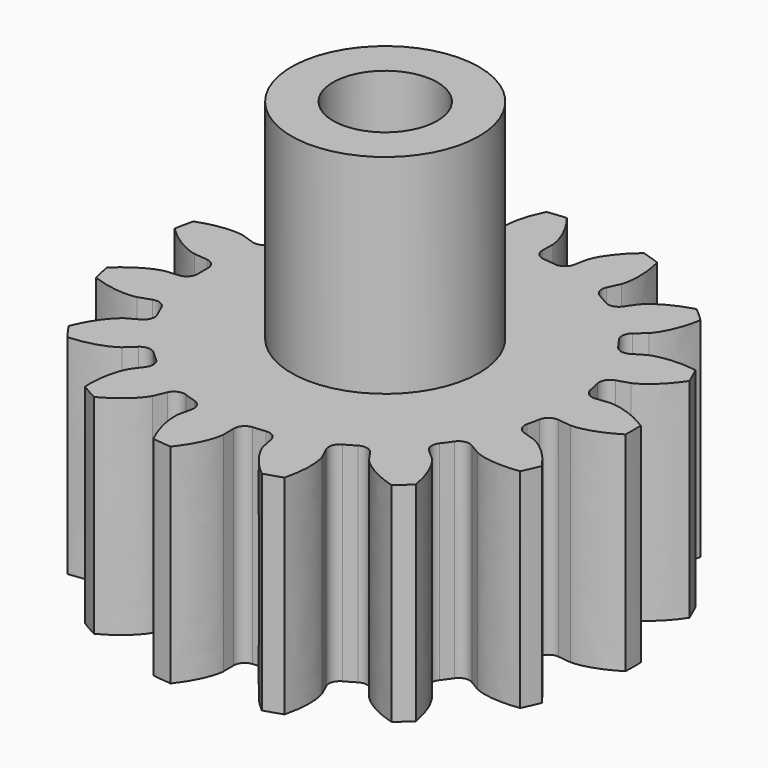
from build123d import *

# Parameters (mm, degrees)
PAD_DEPTH       = 10
SKETCH008_R     = 2.5
POCKET005_DEPTH = 10
SKETCH009_R     = 4.5
SKETCH009_R_2   = 2.5
PAD007_DEPTH    = 10


with BuildPart() as part:
    # InvoluteGear → Pad (new body)
    with BuildSketch(Plane.XY):
        with BuildLine():
            Line((9.193953, -1.105095), (9.818727, -1.179168))
            add(Edge.make_bspline(
                [(9.818727, -1.179168), (9.919585, -1.182359), (10.323547, -1.18095), (11.03372, -0.999479), (11.891084, -0.45771)],
                knots=[0, 0, 0, 0, 0, 1, 1, 1, 1, 1], degree=4))
            ThreePointArc((11.891084, -0.45771), (11.89989, 0), (11.891084, 0.45771))
            add(Edge.make_bspline(
                [(11.891084, 0.45771), (11.03372, 0.999479), (10.323547, 1.18095), (9.919585, 1.182359), (9.818727, 1.179168)],
                knots=[0, 0, 0, 0, 0, 1, 1, 1, 1, 1], degree=4))
            Line((9.818727, 1.179168), (9.193953, 1.105095))
            ThreePointArc((9.193953, 1.105095), (8.819162, 1.204211), (8.614573, 1.533505))
            ThreePointArc((8.614573, 1.533505), (8.558792, 1.819227), (8.493537, 2.102935))
            ThreePointArc((8.493537, 2.102935), (8.546502, 2.486975), (8.848576, 2.729963))
            Line((8.848576, 2.729963), (9.449465, 2.916412))
            add(Edge.make_bspline(
                [(9.449465, 2.916412), (9.542901, 2.95452), (9.911365, 3.120114), (10.486329, 3.574749), (11.049213, 4.418401)],
                knots=[0, 0, 0, 0, 0, 1, 1, 1, 1, 1], degree=4))
            ThreePointArc((11.049213, 4.418401), (10.87109, 4.840121), (10.676878, 5.254679))
            add(Edge.make_bspline(
                [(10.676878, 5.254679), (9.67328, 5.400887), (8.950694, 5.277816), (8.581083, 5.114798), (8.490243, 5.07086)],
                knots=[0, 0, 0, 0, 0, 1, 1, 1, 1, 1], degree=4))
            Line((8.490243, 5.07086), (7.949611, 4.749072))
            ThreePointArc((7.949611, 4.749072), (7.566909, 4.687178), (7.246071, 4.904789))
            ThreePointArc((7.246071, 4.904789), (7.078899, 5.143121), (6.903891, 5.37576))
            ThreePointArc((6.903891, 5.37576), (6.796074, 5.74814), (6.973201, 6.092985))
            Line((6.973201, 6.092985), (7.446304, 6.507719))
            add(Edge.make_bspline(
                [(7.446304, 6.507719), (7.516162, 6.580536), (7.785418, 6.881681), (8.125757, 7.53087), (8.296833, 8.53053)],
                knots=[0, 0, 0, 0, 0, 1, 1, 1, 1, 1], degree=4))
            ThreePointArc((8.296833, 8.53053), (7.96258, 8.843341), (7.616543, 9.143065))
            add(Edge.make_bspline(
                [(7.616543, 9.143065), (6.640242, 8.868433), (6.030185, 8.4621), (5.758834, 8.162841), (5.693718, 8.085754)],
                knots=[0, 0, 0, 0, 0, 1, 1, 1, 1, 1], degree=4))
            Line((5.693718, 8.085754), (5.330709, 7.571891))
            ThreePointArc((5.330709, 7.571891), (5.006268, 7.359689), (4.624658, 7.42799))
            ThreePointArc((4.624658, 7.42799), (4.375, 7.577722), (4.1205, 7.719066))
            ThreePointArc((4.1205, 7.719066), (3.870544, 8.0154), (3.892095, 8.402475))
            Line((3.892095, 8.402475), (4.155609, 8.973781))
            add(Edge.make_bspline(
                [(4.155609, 8.973781), (4.189811, 9.068717), (4.313302, 9.453343), (4.360168, 10.184835), (4.109855, 11.167653)],
                knots=[0, 0, 0, 0, 0, 1, 1, 1, 1, 1], degree=4))
            ThreePointArc((4.109855, 11.167653), (3.677268, 11.317468), (3.239239, 11.450533))
            add(Edge.make_bspline(
                [(3.239239, 11.450533), (2.459046, 10.802547), (2.067002, 10.18321), (1.94083, 9.799455), (1.912698, 9.702548)],
                knots=[0, 0, 0, 0, 0, 1, 1, 1, 1, 1], degree=4))
            Line((1.912698, 9.702548), (1.79008, 9.085462))
            ThreePointArc((1.79008, 9.085462), (1.579998, 8.759643), (1.203599, 8.666825))
            ThreePointArc((1.203599, 8.666825), (0.914624, 8.702067), (0.624637, 8.727676))
            ThreePointArc((0.624637, 8.727676), (0.275761, 8.896724), (0.138011, 9.259101))
            Line((0.138011, 9.259101), (0.146372, 9.888196))
            add(Edge.make_bspline(
                [(0.146372, 9.888196), (0.139003, 9.988835), (0.095376, 10.390437), (-0.159334, 11.07775), (-0.787754, 11.873787)],
                knots=[0, 0, 0, 0, 0, 1, 1, 1, 1, 1], degree=4))
            ThreePointArc((-0.787754, 11.873787), (-1.243877, 11.834701), (-1.698159, 11.7781))
            add(Edge.make_bspline(
                [(-1.698159, 11.7781), (-2.147341, 10.868802), (-2.253585, 10.143551), (-2.212761, 9.741655), (-2.199045, 9.641683)],
                knots=[0, 0, 0, 0, 0, 1, 1, 1, 1, 1], degree=4))
            Line((-2.199045, 9.641683), (-2.060071, 9.028073))
            ThreePointArc((-2.060071, 9.028073), (-2.119467, 8.644976), (-2.425573, 8.407086))
            ThreePointArc((-2.425573, 8.407086), (-2.703899, 8.321745), (-2.979232, 8.227191))
            ThreePointArc((-2.979232, 8.227191), (-3.366704, 8.239724), (-3.639936, 8.514744))
            Line((-3.639936, 8.514744), (-3.888174, 9.092851))
            add(Edge.make_bspline(
                [(-3.888174, 9.092851), (-3.935839, 9.181793), (-4.139041, 9.530929), (-4.651286, 10.055221), (-5.549153, 10.526836)],
                knots=[0, 0, 0, 0, 0, 1, 1, 1, 1, 1], degree=4))
            ThreePointArc((-5.549153, 10.526836), (-5.949945, 10.305607), (-6.341931, 10.069126))
            add(Edge.make_bspline(
                [(-6.341931, 10.069126), (-6.382434, 9.055742), (-6.184506, 8.349979), (-5.983746, 7.999433), (-5.930553, 7.913683)],
                knots=[0, 0, 0, 0, 0, 1, 1, 1, 1, 1], degree=4))
            Line((-5.930553, 7.913683), (-5.554017, 7.409649))
            ThreePointArc((-5.554017, 7.409649), (-5.452458, 7.035513), (-5.635341, 6.693686))
            ThreePointArc((-5.635341, 6.693686), (-5.854893, 6.502517), (-6.067964, 6.304151))
            ThreePointArc((-6.067964, 6.304151), (-6.427035, 6.158), (-6.788505, 6.29811))
            Line((-6.788505, 6.29811), (-7.25042, 6.72527))
            add(Edge.make_bspline(
                [(-7.25042, 6.72527), (-7.33014, 6.787135), (-7.65778, 7.023437), (-8.338988, 7.294053), (-9.351054, 7.359699)],
                knots=[0, 0, 0, 0, 0, 1, 1, 1, 1, 1], degree=4))
            ThreePointArc((-9.351054, 7.359699), (-9.627213, 6.99458), (-9.889124, 6.619109))
            add(Edge.make_bspline(
                [(-9.889124, 6.619109), (-9.513946, 5.676862), (-9.04607, 5.11262), (-8.720087, 4.874037), (-8.636615, 4.817336)],
                knots=[0, 0, 0, 0, 0, 1, 1, 1, 1, 1], degree=4))
            Line((-8.636615, 4.817336), (-8.087622, 4.510029))
            ThreePointArc((-8.087622, 4.510029), (-7.842669, 4.209546), (-7.870708, 3.822887))
            ThreePointArc((-7.870708, 3.822887), (-7.993523, 3.558946), (-8.10749, 3.291065))
            ThreePointArc((-8.10749, 3.291065), (-8.376073, 3.011503), (-8.763281, 2.992476))
            Line((-8.763281, 2.992476), (-9.359002, 3.194829))
            add(Edge.make_bspline(
                [(-9.359002, 3.194829), (-9.456992, 3.21892), (-9.85242, 3.301529), (-10.584803, 3.271677), (-11.536072, 2.920003)],
                knots=[0, 0, 0, 0, 0, 1, 1, 1, 1, 1], degree=4))
            ThreePointArc((-11.536072, 2.920003), (-11.639849, 2.474126), (-11.726399, 2.024587))
            add(Edge.make_bspline(
                [(-11.726399, 2.024587), (-11.00041, 1.316402), (-10.343486, 0.991243), (-9.948645, 0.905876), (-9.849327, 0.888028)],
                knots=[0, 0, 0, 0, 0, 1, 1, 1, 1, 1], degree=4))
            Line((-9.849327, 0.888028), (-9.222805, 0.830584))
            ThreePointArc((-9.222805, 0.830584), (-8.876812, 0.655711), (-8.745157, 0.291076))
            ThreePointArc((-8.745157, 0.291076), (-8.75, 0), (-8.745157, -0.291076))
            ThreePointArc((-8.745157, -0.291076), (-8.876812, -0.655711), (-9.222805, -0.830584))
            Line((-9.222805, -0.830584), (-9.849327, -0.888028))
            add(Edge.make_bspline(
                [(-9.849327, -0.888028), (-9.948645, -0.905876), (-10.343486, -0.991243), (-11.00041, -1.316402), (-11.726399, -2.024587)],
                knots=[0, 0, 0, 0, 0, 1, 1, 1, 1, 1], degree=4))
            ThreePointArc((-11.726399, -2.024587), (-11.639849, -2.474126), (-11.536072, -2.920003))
            add(Edge.make_bspline(
                [(-11.536072, -2.920003), (-10.584803, -3.271677), (-9.85242, -3.301529), (-9.456992, -3.21892), (-9.359002, -3.194829)],
                knots=[0, 0, 0, 0, 0, 1, 1, 1, 1, 1], degree=4))
            Line((-9.359002, -3.194829), (-8.763281, -2.992476))
            ThreePointArc((-8.763281, -2.992476), (-8.376073, -3.011503), (-8.10749, -3.291065))
            ThreePointArc((-8.10749, -3.291065), (-7.993523, -3.558946), (-7.870708, -3.822887))
            ThreePointArc((-7.870708, -3.822887), (-7.842669, -4.209546), (-8.087622, -4.510029))
            Line((-8.087622, -4.510029), (-8.636615, -4.817336))
            add(Edge.make_bspline(
                [(-8.636615, -4.817336), (-8.720087, -4.874037), (-9.04607, -5.11262), (-9.513946, -5.676862), (-9.889124, -6.619109)],
                knots=[0, 0, 0, 0, 0, 1, 1, 1, 1, 1], degree=4))
            ThreePointArc((-9.889124, -6.619109), (-9.627213, -6.99458), (-9.351054, -7.359699))
            add(Edge.make_bspline(
                [(-9.351054, -7.359699), (-8.338988, -7.294053), (-7.65778, -7.023437), (-7.33014, -6.787135), (-7.25042, -6.72527)],
                knots=[0, 0, 0, 0, 0, 1, 1, 1, 1, 1], degree=4))
            Line((-7.25042, -6.72527), (-6.788505, -6.29811))
            ThreePointArc((-6.788505, -6.29811), (-6.427035, -6.158), (-6.067964, -6.304151))
            ThreePointArc((-6.067964, -6.304151), (-5.854893, -6.502517), (-5.635341, -6.693686))
            ThreePointArc((-5.635341, -6.693686), (-5.452458, -7.035513), (-5.554017, -7.409649))
            Line((-5.554017, -7.409649), (-5.930553, -7.913683))
            add(Edge.make_bspline(
                [(-5.930553, -7.913683), (-5.983746, -7.999433), (-6.184506, -8.349979), (-6.382434, -9.055742), (-6.341931, -10.069126)],
                knots=[0, 0, 0, 0, 0, 1, 1, 1, 1, 1], degree=4))
            ThreePointArc((-6.341931, -10.069126), (-5.949945, -10.305607), (-5.549153, -10.526836))
            add(Edge.make_bspline(
                [(-5.549153, -10.526836), (-4.651286, -10.055221), (-4.139041, -9.530929), (-3.935839, -9.181793), (-3.888174, -9.092851)],
                knots=[0, 0, 0, 0, 0, 1, 1, 1, 1, 1], degree=4))
            Line((-3.888174, -9.092851), (-3.639936, -8.514744))
            ThreePointArc((-3.639936, -8.514744), (-3.366704, -8.239724), (-2.979232, -8.227191))
            ThreePointArc((-2.979232, -8.227191), (-2.703899, -8.321745), (-2.425573, -8.407086))
            ThreePointArc((-2.425573, -8.407086), (-2.119467, -8.644976), (-2.060071, -9.028073))
            Line((-2.060071, -9.028073), (-2.199045, -9.641683))
            add(Edge.make_bspline(
                [(-2.199045, -9.641683), (-2.212761, -9.741655), (-2.253585, -10.143551), (-2.147341, -10.868802), (-1.698159, -11.7781)],
                knots=[0, 0, 0, 0, 0, 1, 1, 1, 1, 1], degree=4))
            ThreePointArc((-1.698159, -11.7781), (-1.243877, -11.834701), (-0.787754, -11.873787))
            add(Edge.make_bspline(
                [(-0.787754, -11.873787), (-0.159334, -11.07775), (0.095376, -10.390437), (0.139003, -9.988835), (0.146372, -9.888196)],
                knots=[0, 0, 0, 0, 0, 1, 1, 1, 1, 1], degree=4))
            Line((0.146372, -9.888196), (0.138011, -9.259101))
            ThreePointArc((0.138011, -9.259101), (0.275761, -8.896724), (0.624637, -8.727676))
            ThreePointArc((0.624637, -8.727676), (0.914624, -8.702067), (1.203599, -8.666825))
            ThreePointArc((1.203599, -8.666825), (1.579998, -8.759643), (1.79008, -9.085462))
            Line((1.79008, -9.085462), (1.912698, -9.702548))
            add(Edge.make_bspline(
                [(1.912698, -9.702548), (1.94083, -9.799455), (2.067002, -10.18321), (2.459046, -10.802547), (3.239239, -11.450533)],
                knots=[0, 0, 0, 0, 0, 1, 1, 1, 1, 1], degree=4))
            ThreePointArc((3.239239, -11.450533), (3.677268, -11.317468), (4.109855, -11.167653))
            add(Edge.make_bspline(
                [(4.109855, -11.167653), (4.360168, -10.184835), (4.313302, -9.453343), (4.189811, -9.068717), (4.155609, -8.973781)],
                knots=[0, 0, 0, 0, 0, 1, 1, 1, 1, 1], degree=4))
            Line((4.155609, -8.973781), (3.892095, -8.402475))
            ThreePointArc((3.892095, -8.402475), (3.870544, -8.0154), (4.1205, -7.719066))
            ThreePointArc((4.1205, -7.719066), (4.375, -7.577722), (4.624658, -7.42799))
            ThreePointArc((4.624658, -7.42799), (5.006268, -7.359689), (5.330709, -7.571891))
            Line((5.330709, -7.571891), (5.693718, -8.085754))
            add(Edge.make_bspline(
                [(5.693718, -8.085754), (5.758834, -8.162841), (6.030185, -8.4621), (6.640242, -8.868433), (7.616543, -9.143065)],
                knots=[0, 0, 0, 0, 0, 1, 1, 1, 1, 1], degree=4))
            ThreePointArc((7.616543, -9.143065), (7.96258, -8.843341), (8.296833, -8.53053))
            add(Edge.make_bspline(
                [(8.296833, -8.53053), (8.125757, -7.53087), (7.785418, -6.881681), (7.516162, -6.580536), (7.446304, -6.507719)],
                knots=[0, 0, 0, 0, 0, 1, 1, 1, 1, 1], degree=4))
            Line((7.446304, -6.507719), (6.973201, -6.092985))
            ThreePointArc((6.973201, -6.092985), (6.796074, -5.74814), (6.903891, -5.37576))
            ThreePointArc((6.903891, -5.37576), (7.078899, -5.143121), (7.246071, -4.904789))
            ThreePointArc((7.246071, -4.904789), (7.566909, -4.687178), (7.949611, -4.749072))
            Line((7.949611, -4.749072), (8.490243, -5.07086))
            add(Edge.make_bspline(
                [(8.490243, -5.07086), (8.581083, -5.114798), (8.950694, -5.277816), (9.67328, -5.400887), (10.676878, -5.254679)],
                knots=[0, 0, 0, 0, 0, 1, 1, 1, 1, 1], degree=4))
            ThreePointArc((10.676878, -5.254679), (10.87109, -4.840121), (11.049213, -4.418401))
            add(Edge.make_bspline(
                [(11.049213, -4.418401), (10.486329, -3.574749), (9.911365, -3.120114), (9.542901, -2.95452), (9.449465, -2.916412)],
                knots=[0, 0, 0, 0, 0, 1, 1, 1, 1, 1], degree=4))
            Line((9.449465, -2.916412), (8.848576, -2.729963))
            ThreePointArc((8.848576, -2.729963), (8.546502, -2.486975), (8.493537, -2.102935))
            ThreePointArc((8.493537, -2.102935), (8.558792, -1.819227), (8.614573, -1.533505))
            ThreePointArc((8.614573, -1.533505), (8.819162, -1.204211), (9.193953, -1.105095))
        make_face()
    extrude(amount=PAD_DEPTH)

    # Sketch008 → Pocket005 (cut)
    with BuildSketch(Plane.XY):
        Circle(SKETCH008_R)
    extrude(amount=POCKET005_DEPTH, mode=Mode.SUBTRACT)

    # Sketch009 (on Face5 of Pocket005) → Pad007 (join)
    with BuildSketch(Plane.XY.offset(10)):
        Circle(SKETCH009_R)
        Circle(SKETCH009_R_2, mode=Mode.SUBTRACT)
    extrude(amount=PAD007_DEPTH)


solid = part.part
